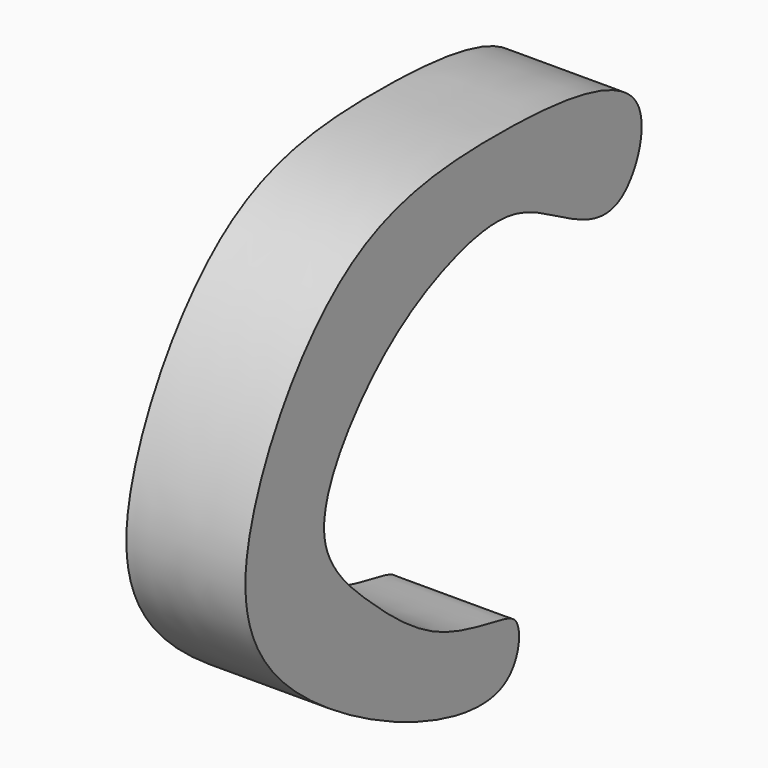
from build123d import *

# Parameters (mm, degrees)
F1_DEPTH = 18.0929321796


with BuildPart() as f1:
    # F0 (on Right) → F1 (new body)
    with BuildSketch(Plane.YZ):
        with BuildLine():
            add(Edge.make_bspline(
                [(11.3791059703, -42.5337105989), (3.4346076846, -45.976650492), (-37.4335899189, -27.3114866893), (-38.688187571, 0.3256729344), (-19.2553700261, 29.6595786723), (8.322628514, 32.9424167225), (42.8451767727, 30.0887206622), (35.00688375, 10.057114305), (23.1281691119, 15.4328138142), (13.4143042345, 21.723846841), (-0.8390913714, 18.2686743314), (-14.2575005958, 9.6505015964), (-26.2875586272, -8.34943567), (-13.6670873362, -21.0132276129), (-1.1670895729, -31.3036007246), (10.9864549406, -33.099411868), (15.7412772732, -34.4855922807), (14.6952837109, -41.096565014), (11.3791059703, -42.5337105989)],
                knots=[0, 0, 0, 0, 0.1016891779, 0.1773442936, 0.2615102571, 0.3427151734, 0.4221823223, 0.4743374624, 0.5229832916, 0.5742960751, 0.6293769227, 0.6910493844, 0.7555513573, 0.8143184703, 0.8763589647, 0.9280811842, 0.957553092, 1, 1, 1, 1], degree=3))
        make_face()
    extrude(amount=F1_DEPTH)


solid = f1.part
